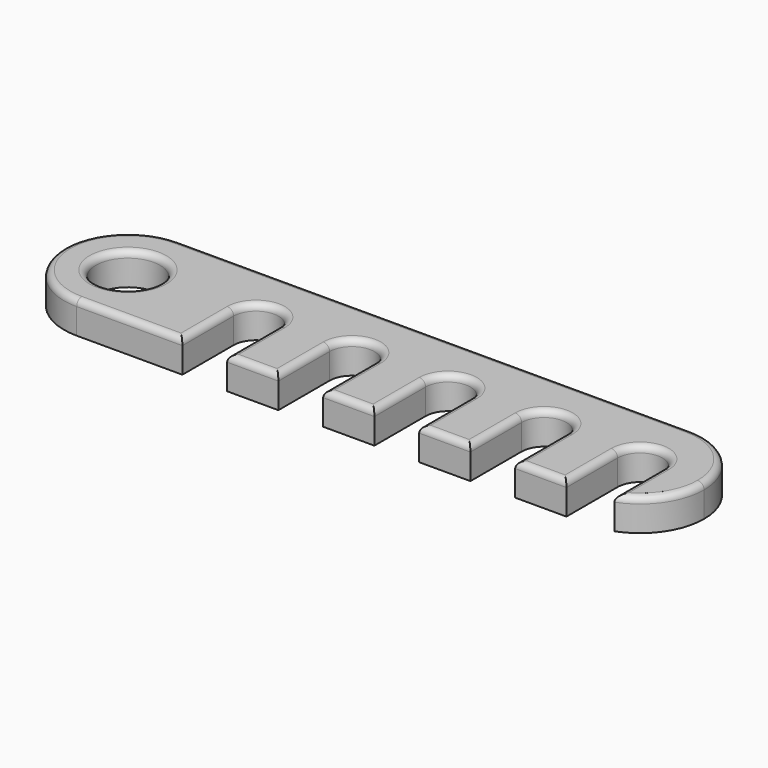
from build123d import *

# Parameters (mm, degrees)
F0_R     = 5
F1_DEPTH = 5
F2_R     = 1


with BuildPart() as f1:
    # F0 (on Top) → F1 (new body)
    with BuildSketch(Plane.XY):
        with BuildLine():
            Line((28.5, -10), (36.5, -10))
            Line((36.5, -10), (36.5, 0))
            ThreePointArc((36.5, 0), (40, 3.5), (43.5, 0))
            Line((43.5, 0), (43.5, -9.3674969976))
            ThreePointArc((43.5, -9.3674969976), (48.2158383626, -5.7008771255), (50, 0))
            ThreePointArc((50, 0), (47.0710678119, 7.0710678119), (40, 10))
            Line((40, 10), (-40, 10))
            ThreePointArc((-40, 10), (-47.0710678119, 7.0710678119), (-50, 0))
            ThreePointArc((-50, 0), (-47.0710678119, -7.0710678119), (-40, -10))
            Line((-40, -10), (-23.5, -10))
            Line((-23.5, -10), (-23.5, 0))
            ThreePointArc((-23.5, 0), (-20, 3.5), (-16.5, 0))
            Line((-16.5, 0), (-16.5, -10))
            Line((-16.5, -10), (-8.5, -10))
            Line((-8.5, -10), (-8.5, 0))
            ThreePointArc((-8.5, 0), (-5, 3.5), (-1.5, 0))
            Line((-1.5, 0), (-1.5, -10))
            Line((-1.5, -10), (6.5, -10))
            Line((6.5, -10), (6.5, 0))
            ThreePointArc((6.5, 0), (10, 3.5), (13.5, 0))
            Line((13.5, 0), (13.5, -10))
            Line((13.5, -10), (21.5, -10))
            Line((21.5, -10), (21.5, 0))
            ThreePointArc((21.5, 0), (25, 3.5), (28.5, 0))
            Line((28.5, 0), (28.5, -10))
        make_face()
        with Locations((-40, 0)):
            Circle(F0_R, mode=Mode.SUBTRACT)
    extrude(amount=F1_DEPTH)

    # F2
    f2_edges = [f1.edges().sort_by_distance(p)[0] for p in [
        (-31.75, -10, 5),
        (-50, 0, 5),
        (-12.5, -10, 5),
        (2.5, -10, 5),
        (17.5, -10, 5),
        (32.5, -10, 5),
        (49.840604, 1.778346, 5),
        (0, 10, 5),
        (-45, 0, 5),
        (-23.5, -5, 5),
        (-20, 3.5, 5),
        (-16.5, -5, 5),
        (-8.5, -5, 5),
        (6.5, -5, 5),
        (21.5, -5, 5),
        (40, 3.5, 5),
    ]]
    fillet(f2_edges, radius=F2_R)


solid = f1.part
